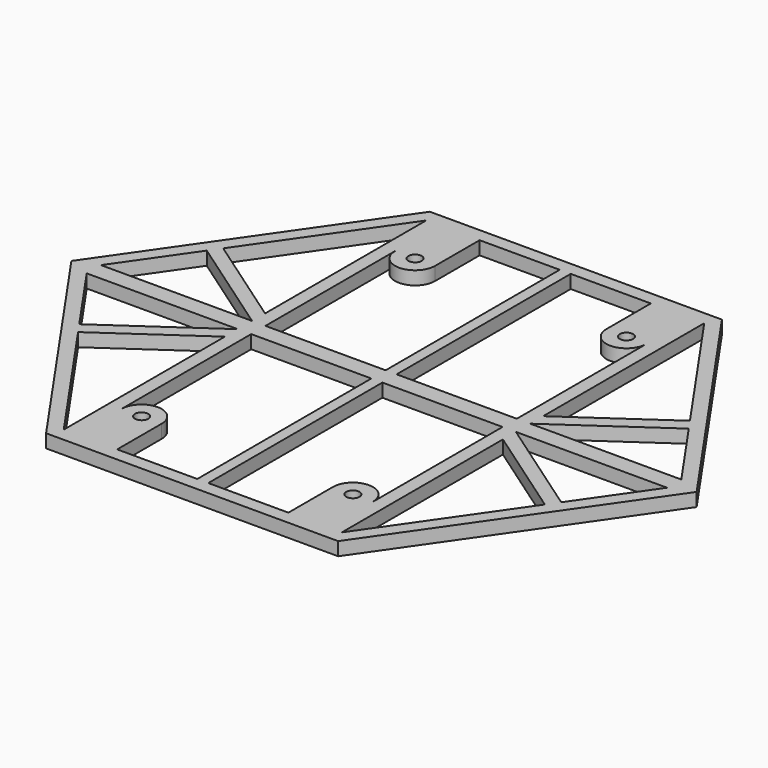
from build123d import *

# Parameters (mm, degrees)
SKETCH001_R      = 1.5
EXTRUDE001_DEPTH = 10
EXTRUDE_DEPTH    = 3


with BuildPart() as extrude001:
    # Sketch001 (on Face8 of Extrude) → Extrude001 (new body)
    with BuildSketch(Plane.XY.offset(3)):
        with Locations((-23.730994, 38.396749)):
            Circle(SKETCH001_R)
        Polygon((-65.179059, 2), (-54.13242, 17.905464), (-31.230994, 2), align=None)
        Polygon((-31.230994, 5.652561), (-52.421109, 20.369488), (-31.230994, 50.88), align=None)
        with BuildLine():
            Line((-28.230994, 38.396749), (-28.230994, 2))
            Line((-28.230994, 2), (-1.236094, 2))
            Line((-1.236094, 2), (-1.236094, 50.88))
            Line((-19.230994, 50.88), (-1.236094, 50.88))
            Line((-19.230994, 50.88), (-19.230994, 38.396747))
            ThreePointArc((-28.230994, 38.396749), (-23.730995, 33.896749), (-19.230994, 38.396747))
        make_face()
    extrude(amount=-EXTRUDE001_DEPTH)


with BuildPart() as part_mirroring:
    # Part__Mirroring: instance of Extrude001
    add(extrude001.part.mirror(Plane(origin=(0, 0, 0), x_dir=(1, 0, 0), z_dir=(0, 1, 0))))


with BuildPart() as part_mirroring001:
    # Part__Mirroring001: instance of Part__Mirroring
    add(part_mirroring.part.mirror(Plane(origin=(0, 0, 0), x_dir=(0, -1, 0), z_dir=(1, 0, 0))))


with BuildPart() as part_mirroring002:
    # Part__Mirroring002: instance of Extrude001
    add(extrude001.part.mirror(Plane(origin=(0, 0, 0), x_dir=(0, -1, 0), z_dir=(1, 0, 0))))


with BuildPart() as cut003:
    # Sketch → Extrude (new body)
    with BuildSketch(Plane.XY):
        Polygon((-32.8, 53.88), (32.8, 53.88), (70.220657, 0), (32.8, -53.88), (-32.8, -53.88), (-70.220657, 0), align=None)
    extrude(amount=EXTRUDE_DEPTH)

    # Cut: cut Part__Mirroring002
    add(part_mirroring002.part, mode=Mode.SUBTRACT)

    # Cut001: cut Extrude001
    add(extrude001.part, mode=Mode.SUBTRACT)

    # Cut002: cut Part__Mirroring001
    add(part_mirroring001.part, mode=Mode.SUBTRACT)

    # Cut003: cut Part__Mirroring
    add(part_mirroring.part, mode=Mode.SUBTRACT)


solid = cut003.part
